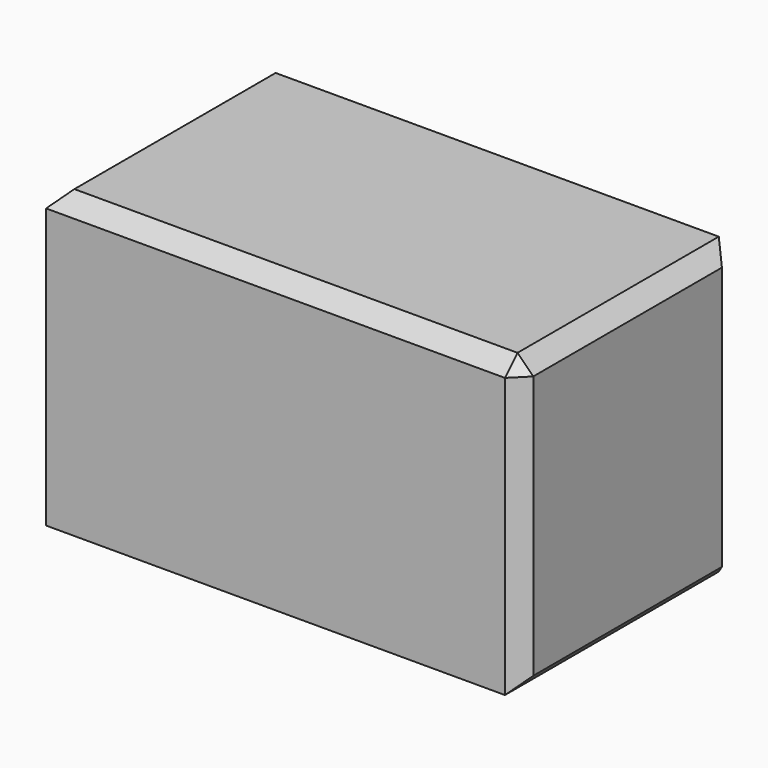
from build123d import *

# Parameters (mm, degrees)
F0_W     = 153.35001
F0_H     = 95.295806
F1_DEPTH = 86.36
F2_SIZE  = 5.08
F3_T     = -2.5


with BuildPart() as f1:
    # F0 (on Front) → F1 (new body)
    with BuildSketch(Plane.XZ):
        with Locations((5.301088, 6.084798)):
            Rectangle(F0_W, F0_H)
    extrude(amount=F1_DEPTH)

    # F2
    f2_edges = [f1.edges().sort_by_distance(p)[0] for p in [
        (5.301088, -86.36, 53.732701),
        (81.976093, -43.18, 53.732701),
        (-71.373917, -43.18, 53.732701),
        (81.976093, -86.36, 6.084798),
        (81.976093, 0, 6.084798),
        (81.976093, -43.18, -41.563105),
    ]]
    chamfer(f2_edges, length=F2_SIZE)

    # F3
    f3_openings = [f1.faces().sort_by_distance(p)[0] for p in [
        (2.761088, -43.18, -41.563105),
    ]]
    offset(amount=F3_T, openings=f3_openings)


solid = f1.part
